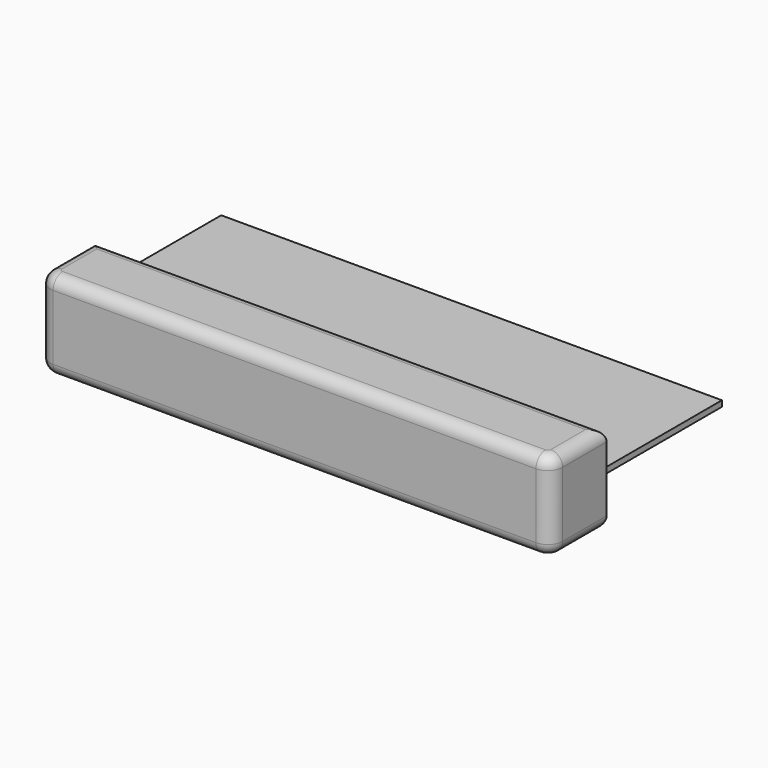
from build123d import *

# Parameters (mm, degrees)
F0_W     = 215
F0_H     = 65
F1_DEPTH = 2.5
F2_DEPTH = 19.05
F3_R     = 5.08


with BuildPart() as f1:
    # F0 (on Top) → F1 (new body)
    with BuildSketch(Plane.XY):
        with Locations((21.428473, -29.951386)):
            Rectangle(F0_W, F0_H)
    extrude(amount=F1_DEPTH)

    # F0 (on Top) → F2 (join, symmetric)
    with BuildSketch(Plane.XY):
        with BuildLine():
            Line((128.928473, -62.451386), (-86.071527, -62.451386))
            Line((-86.071527, -62.451386), (-88.571527, -62.451386))
            Line((-88.571527, -62.451386), (-88.571527, -86.101386))
            ThreePointArc((-88.571527, -86.101386), (-86.711655, -90.591514), (-82.221527, -92.451386))
            Line((-82.221527, -92.451386), (125.078473, -92.451386))
            ThreePointArc((125.078473, -92.451386), (129.568601, -90.591514), (131.428473, -86.101386))
            Line((131.428473, -86.101386), (131.428473, -62.451386))
            Line((131.428473, -62.451386), (128.928473, -62.451386))
        make_face()
    extrude(amount=F2_DEPTH, both=True)

    # F3
    f3_edges = [f1.edges().sort_by_distance(p)[0] for p in [
        (21.428473, -92.451386, 19.05),
        (21.428473, -92.451386, -19.05),
        (21.428473, -62.451386, 19.05),
        (21.428473, -62.451386, -19.05),
    ]]
    fillet(f3_edges, radius=F3_R)


solid = f1.part
